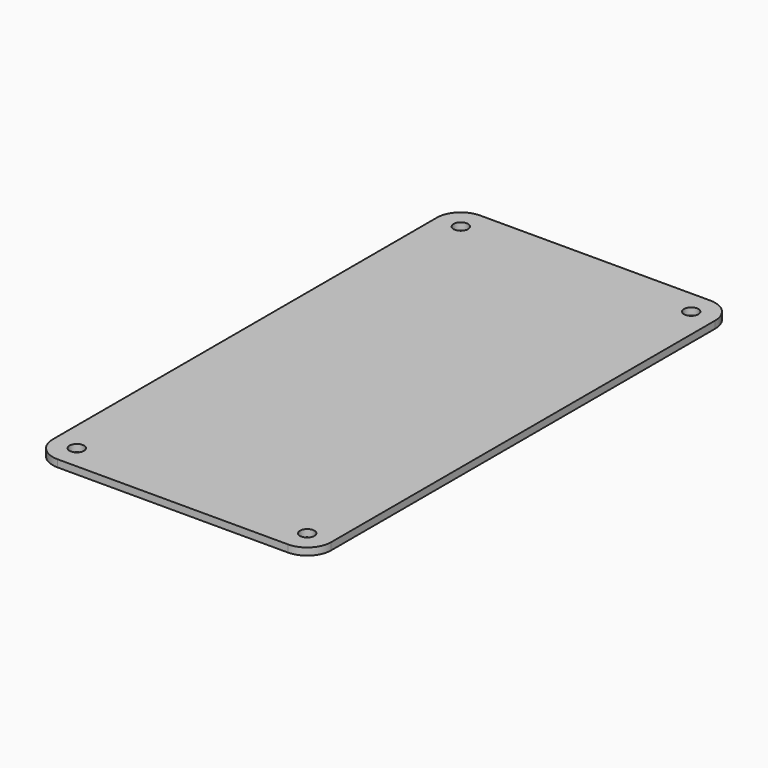
from build123d import *

# Parameters (mm, degrees)
BOX005_W        = 58
BOX005_H        = 110
BOX005_DEPTH    = 1.5
FILLET002_R     = 5
SKETCH008_R     = 1.5
POCKET003_DEPTH = 5


with BuildPart() as part:
    # Box005 → Box005 (new body)
    with BuildSketch(Plane(origin=(-2, -13, -1.5), x_dir=(1, 0, 0), z_dir=(0, 0, 1))):
        with Locations((29, 55)):
            Rectangle(BOX005_W, BOX005_H)
    extrude(amount=BOX005_DEPTH)

    # Fillet002
    fillet002_edges = [part.edges().sort_by_distance(p)[0] for p in [
        (-2, -13, -0.75),
        (-2, 97, -0.75),
        (56, -13, -0.75),
        (56, 97, -0.75),
    ]]
    fillet(fillet002_edges, radius=FILLET002_R)

    # Sketch008 → Pocket003 (cut)
    with BuildSketch(Plane.XY):
        with Locations((3, 92)):
            Circle(SKETCH008_R)
        with Locations((51, 92)):
            Circle(SKETCH008_R)
        with Locations((3, -8)):
            Circle(SKETCH008_R)
        with Locations((51, -8)):
            Circle(SKETCH008_R)
    extrude(amount=-POCKET003_DEPTH, mode=Mode.SUBTRACT)


solid = part.part
